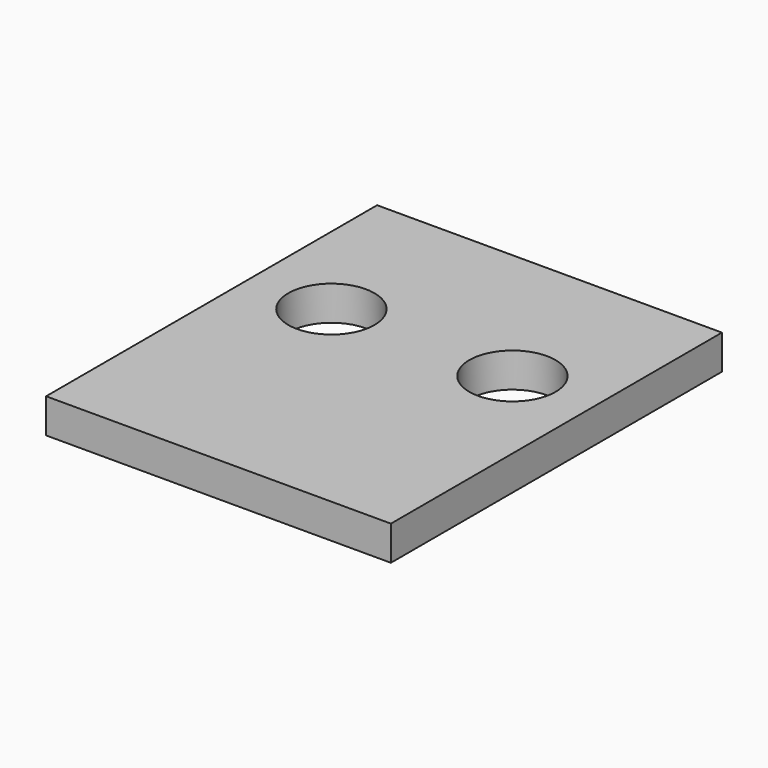
from build123d import *

# Parameters (mm, degrees)
F1_DEPTH = 12.7
F2_R     = 15.875
F3_DEPTH = 25.4


with BuildPart() as f1:
    # F0 (on Top) → F1 (new body)
    with BuildSketch(Plane.XY):
        Polygon((-63.5, -63.5), (63.5, -63.5), (63.5, 63.5), (63.5, 88.9), (-63.5, 88.9), (-63.5, 63.5), align=None)
    extrude(amount=-F1_DEPTH)

    # F2 (on face) → F3 (cut)
    with BuildSketch(Plane.XY):
        with Locations((-33.3375, 30.1625)):
            Circle(F2_R)
        with Locations((33.3375, 30.1625)):
            Circle(F2_R)
    extrude(amount=-F3_DEPTH, mode=Mode.SUBTRACT)


solid = f1.part
